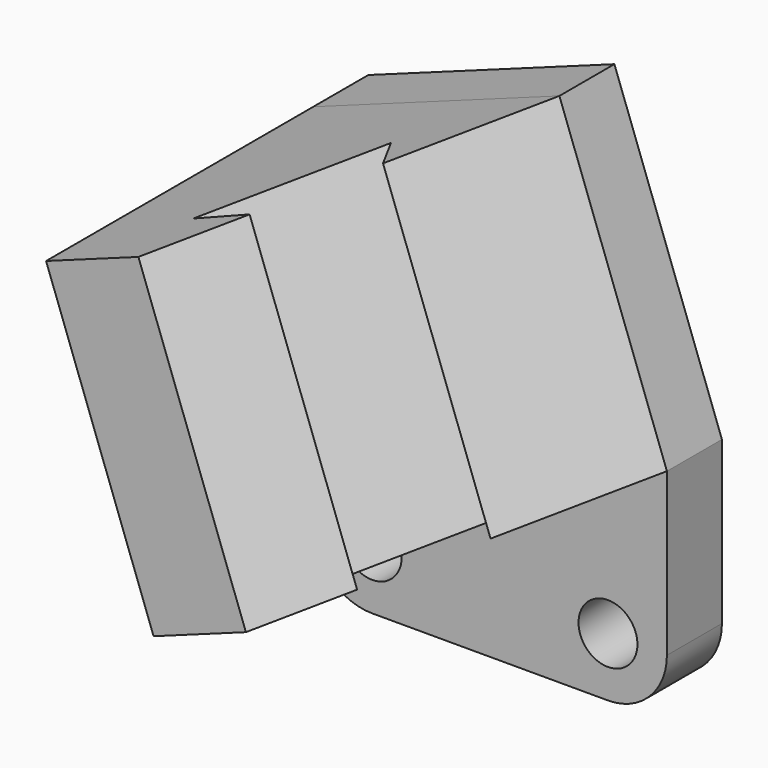
from build123d import *

# Parameters (mm, degrees)
F1_DEPTH = 14
F3_DEPTH = 64
F4_R     = 12
F5_R     = 6
F6_DEPTH = 14


with BuildPart() as f1:
    # F0 (on Front) → F1 (new body)
    with BuildSketch(Plane.XZ):
        Polygon((0, 86.9015205713), (0, 0), (72, 0), (72, 45), (50.1107108272, 105.1403277303), align=None)
    extrude(amount=F1_DEPTH)

    # F2 (on face) → F3 (join, through all)
    with BuildSketch(Plane(origin=(-27.9296103431, 0, 76.7359737518), x_dir=(0.9396926208, 0, 0.3420201433), z_dir=(-0.3420201433, 0, 0.9396926208))):
        Polygon((83.0487751462, -14), (29.722070521, -14), (29.722070521, -82), (49.722070521, -82), (58.5238033349, -64.0408936895), (47.0034087749, -64.8243747139), (62.647170961, -32.9047522785), (69.0858827116, -42.4899661168), align=None)
    extrude(amount=-F3_DEPTH)

    # F4
    f4_edges = [f1.edges().sort_by_distance(p)[0] for p in [
        (0, -7, 0),
        (72, -7, 0),
    ]]
    fillet(f4_edges, radius=F4_R)

    # F5 (on face) → F6 (cut, through all)
    with BuildSketch(Plane.XZ.offset(14)):
        with Locations((12, 12)):
            Circle(F5_R)
        with Locations((60, 12)):
            Circle(F5_R)
    extrude(amount=-F6_DEPTH, mode=Mode.SUBTRACT)


solid = f1.part
